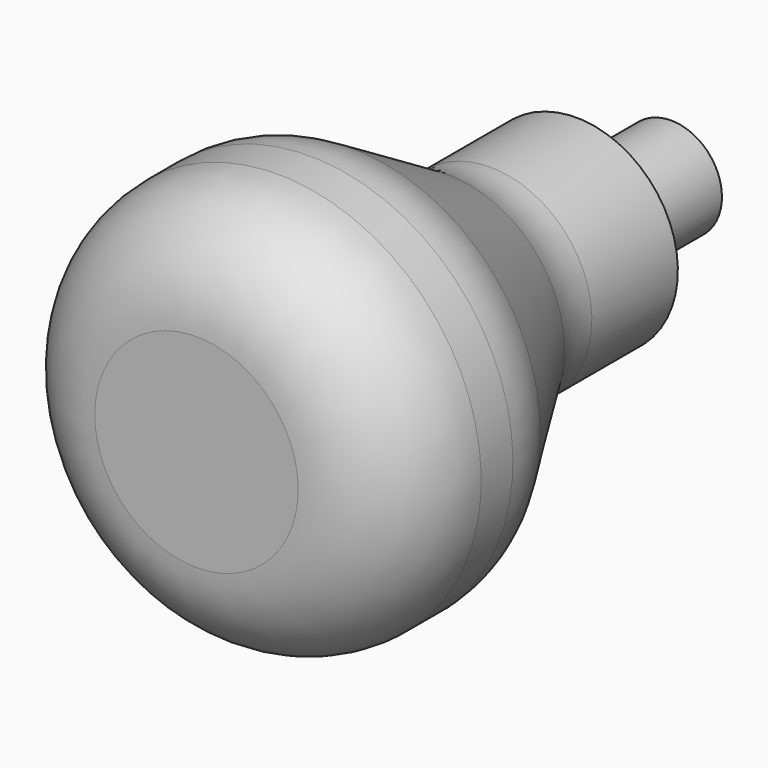
from build123d import *


with BuildPart() as f1:
    # F0 (on Right) → F1 (revolve)
    with BuildSketch(Plane.YZ):
        with BuildLine():
            Line((11.13746, -3), (11.13746, 0))
            Line((11.13746, 0), (-23.86254, 0))
            Line((-23.86254, 0), (-23.86254, -6))
            ThreePointArc((-23.86254, -6), (-22.10518, -10.242641), (-17.86254, -12))
            Line((-17.86254, -12), (-15.524443, -12))
            ThreePointArc((-15.524443, -12), (-13.922842, -11.78229), (-12.437469, -11.144958))
            Line((-12.437469, -11.144958), (-5.28761, -6.855042))
            ThreePointArc((-5.28761, -6.855042), (-3.802237, -6.21771), (-2.200636, -6))
            Line((-2.200636, -6), (4.13746, -6))
            Line((4.13746, -6), (4.13746, -3))
            Line((4.13746, -3), (11.13746, -3))
        make_face()
    revolve(axis=Axis((0, -6.36254, 0), (0, -1, 0)))


solid = f1.part
